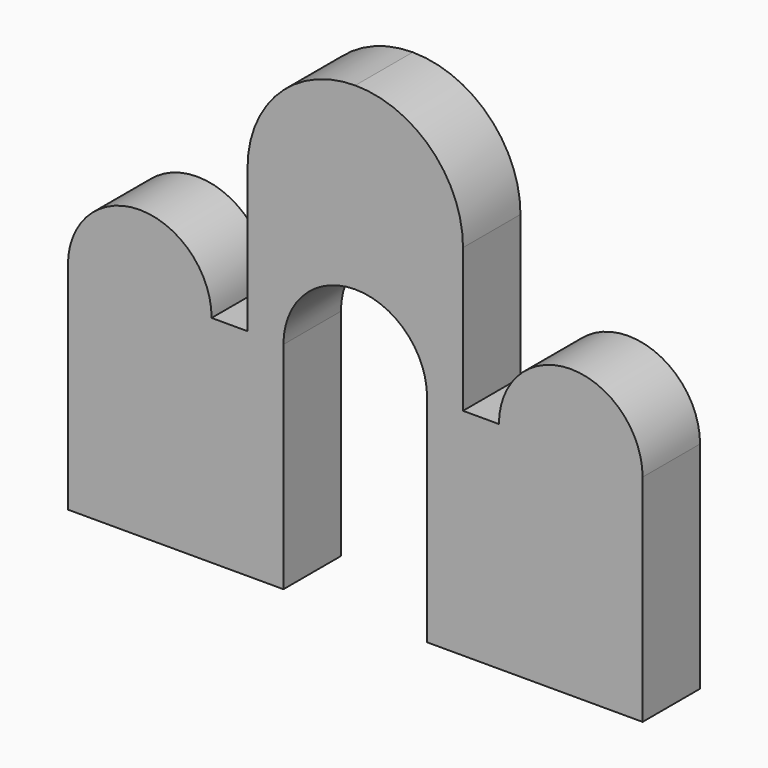
from build123d import *

# Parameters (mm, degrees)
F2_DEPTH = 25.4


with BuildPart() as f2:
    # F1 (on Front) → F2 (new body)
    with BuildSketch(Plane.XZ):
        with BuildLine():
            Line((0, 76.2), (0, 0))
            Line((0, 0), (76.2, 0))
            Line((76.2, 0), (76.2, 76.2))
            ThreePointArc((76.2, 76.2), (83.639488, 94.160512), (101.6, 101.6))
            ThreePointArc((101.6, 101.6), (119.560512, 94.160512), (127, 76.2))
            Line((127, 76.2), (127, 0))
            Line((127, 0), (203.2, 0))
            Line((203.2, 0), (203.2, 76.2))
            ThreePointArc((203.2, 76.2), (177.8, 101.6), (152.4, 76.2))
            Line((152.4, 76.2), (139.7, 76.2))
            Line((139.7, 76.2), (139.7, 127))
            ThreePointArc((139.7, 127), (128.540768, 153.940768), (101.6, 165.1))
            ThreePointArc((101.6, 165.1), (74.659232, 153.940768), (63.5, 127))
            Line((63.5, 127), (63.5, 76.2))
            Line((63.5, 76.2), (50.8, 76.2))
            ThreePointArc((50.8, 76.2), (25.4, 101.6), (0, 76.2))
        make_face()
    extrude(amount=F2_DEPTH)


solid = f2.part
